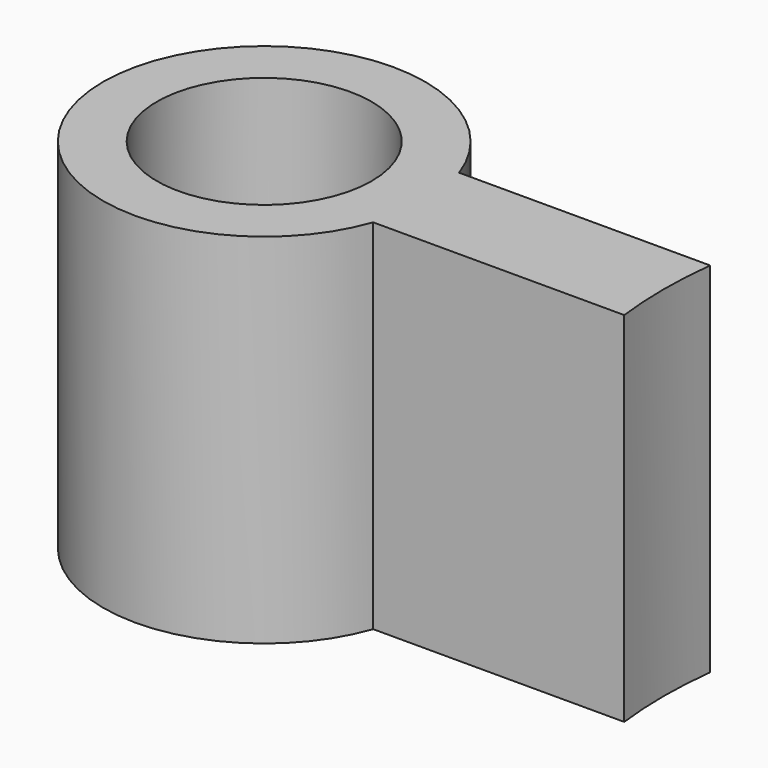
from build123d import *

# Parameters (mm, degrees)
F0_R     = 3
F1_DEPTH = 10


with BuildPart() as f1:
    # F0 (on Top) → F1 (new body)
    with BuildSketch(Plane.XY):
        with BuildLine():
            ThreePointArc((4.242641, -1.5), (4.435194, -0.760959), (4.5, 0))
            ThreePointArc((4.5, 0), (4.435194, 0.760959), (4.242641, 1.5))
            ThreePointArc((4.242641, 1.5), (-4.5, 0), (4.242641, -1.5))
        make_face()
        Circle(F0_R, mode=Mode.SUBTRACT)
        with BuildLine():
            ThreePointArc((4.242641, 1.5), (4.435194, 0.760959), (4.5, 0))
            ThreePointArc((4.5, 0), (4.435194, -0.760959), (4.242641, -1.5))
            Line((4.242641, -1.5), (11.25223, -1.5))
            ThreePointArc((11.25223, -1.5), (11.161904, 0), (11.25223, 1.5))
            Line((11.25223, 1.5), (4.242641, 1.5))
        make_face()
    extrude(amount=F1_DEPTH)


solid = f1.part
